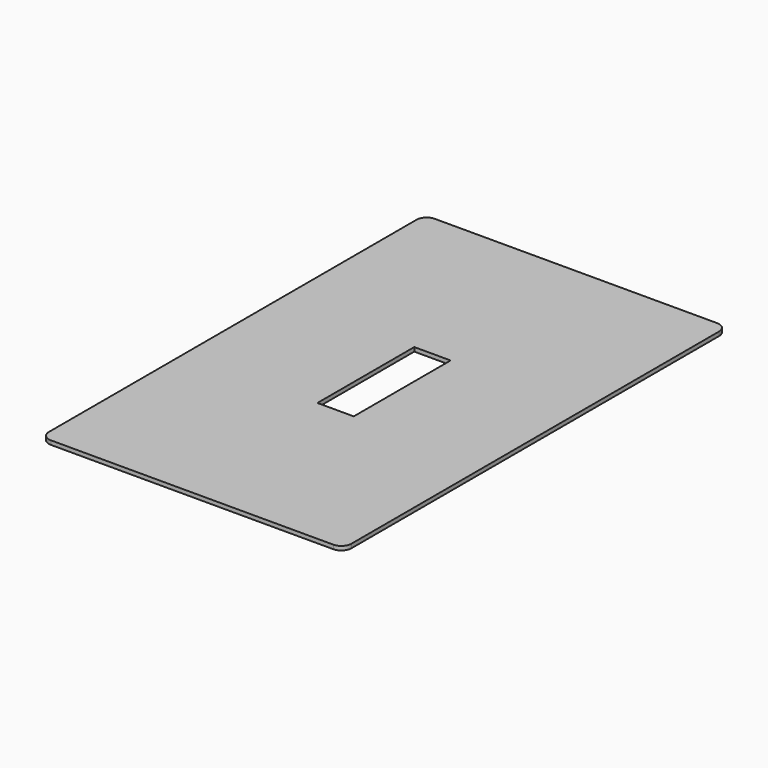
from build123d import *

# Parameters (mm, degrees)
F1_DEPTH = 2


with BuildPart() as f1:
    # F0 (on Top) → F1 (new body)
    with BuildSketch(Plane.XY):
        with BuildLine():
            Line((-5.704327, 114.529323), (-75.676228, 114.529323))
            ThreePointArc((-75.676228, 114.529323), (-79.211762, 113.064857), (-80.676228, 109.529323))
            Line((-80.676228, 109.529323), (-80.676228, -4.359057))
            Line((-80.676228, -4.359057), (-80.676228, -118.247436))
            ThreePointArc((-80.676228, -118.247436), (-79.211762, -121.78297), (-75.676228, -123.247436))
            Line((-75.676228, -123.247436), (-5.704327, -123.247436))
            Line((-5.704327, -123.247436), (64.267573, -123.247436))
            ThreePointArc((64.267573, -123.247436), (67.803107, -121.78297), (69.267573, -118.247436))
            Line((69.267573, -118.247436), (69.267573, -4.359057))
            Line((69.267573, -4.359057), (69.267573, 109.529323))
            ThreePointArc((69.267573, 109.529323), (67.803107, 113.064857), (64.267573, 114.529323))
            Line((64.267573, 114.529323), (-5.704327, 114.529323))
        make_face()
        Polygon((-14.704327, 25.640943), (-5.704327, 25.640943), (3.295673, 25.640943), (3.295673, -34.359057), (-5.704327, -34.359057), (-14.704327, -34.359057), align=None, mode=Mode.SUBTRACT)
    extrude(amount=F1_DEPTH)


solid = f1.part
